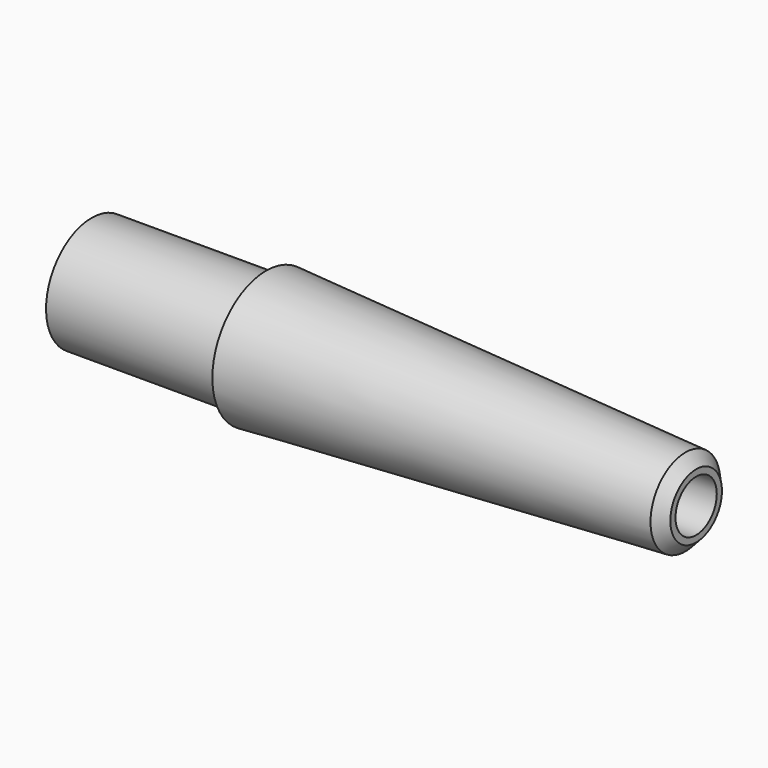
from build123d import *

# Parameters (mm, degrees)
F2_R          = 3.048
F3_DEPTH      = 76.2
F3_DEPTH_BACK = 76.2
F4_SIZE       = 1.27


with BuildPart() as f1:
    # F0 (on Front) → F1 (revolve)
    with BuildSketch(Plane.XZ):
        Polygon((50.8, 5.08), (0, 7.9375), (0, 6.731), (-20.609517, 6.731), (-20.609517, 0), (0, 0), (50.8, 0), align=None)
    revolve(axis=Axis((25.4, 0, 0), (-1, 0, 0)))

    # F2 (on Right) → F3 (cut, two sides)
    with BuildSketch(Plane.YZ) as f3_sk:
        Circle(F2_R)
    extrude(amount=F3_DEPTH, mode=Mode.SUBTRACT)
    extrude(f3_sk.sketch, amount=-F3_DEPTH_BACK, mode=Mode.SUBTRACT)

    # F4
    f4_edges = [f1.edges().sort_by_distance(p)[0] for p in [
        (50.8, 0, -5.08),
    ]]
    chamfer(f4_edges, length=F4_SIZE)


solid = f1.part
